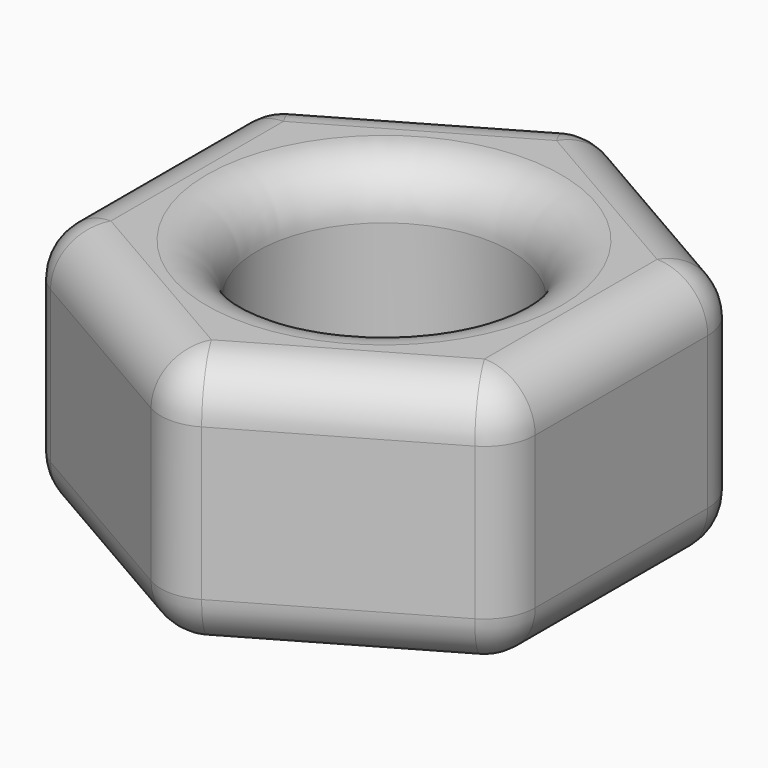
from build123d import *

# Parameters (mm, degrees)
F1_DEPTH = 25.4
F2_R     = 5.08
F3_R     = 5.08
F4_R     = 12.7
F5_DEPTH = 25.401
F6_R     = 5.08


with BuildPart() as f1:
    # F0 (on Top) → F1 (new body)
    with BuildSketch(Plane.XY):
        Polygon((23.816695, -13.750575), (23.816695, 13.750575), (0, 27.501151), (-23.816695, 13.750575), (-23.816695, -13.750575), (0, -27.501151), align=None)
    extrude(amount=F1_DEPTH)

    # F2
    f2_edges = [f1.edges().sort_by_distance(p)[0] for p in [
        (23.816695, 13.750575, 12.7),
        (0, 27.501151, 12.7),
        (23.816695, -13.750575, 12.7),
        (0, -27.501151, 12.7),
        (-23.816695, -13.750575, 12.7),
        (-23.816695, 13.750575, 12.7),
    ]]
    fillet(f2_edges, radius=F2_R)

    # F3
    f3_edges = [f1.edges().sort_by_distance(p)[0] for p in [
        (11.908348, -20.625863, 25.4),
        (0, -26.715272, 25.4),
        (23.136104, -13.357636, 25.4),
        (-11.908348, -20.625863, 25.4),
        (23.816695, 0, 25.4),
        (-23.136104, -13.357636, 25.4),
        (23.136104, 13.357636, 25.4),
        (-23.816695, 0, 25.4),
        (11.908348, 20.625863, 25.4),
        (-23.136104, 13.357636, 25.4),
        (0, 26.715272, 25.4),
        (-11.908348, 20.625863, 25.4),
        (11.908348, -20.625863, 0),
        (0, -26.715272, 0),
        (23.136104, -13.357636, 0),
        (-11.908348, -20.625863, 0),
        (23.816695, 0, 0),
        (-23.136104, -13.357636, 0),
        (23.136104, 13.357636, 0),
        (-23.816695, 0, 0),
        (11.908348, 20.625863, 0),
        (-23.136104, 13.357636, 0),
        (0, 26.715272, 0),
        (-11.908348, 20.625863, 0),
    ]]
    fillet(f3_edges, radius=F3_R)

    # F4 (on face) → F5 (cut, through all)
    with BuildSketch(Plane.XY.offset(25.4)):
        Circle(F4_R)
    extrude(amount=-F5_DEPTH, mode=Mode.SUBTRACT)

    # F6
    f6_edges = [f1.edges().sort_by_distance(p)[0] for p in [
        (-12.7, 0, 25.4),
        (12.7, 0, 12.7),
        (-12.7, 0, 0),
    ]]
    fillet(f6_edges, radius=F6_R)


solid = f1.part
